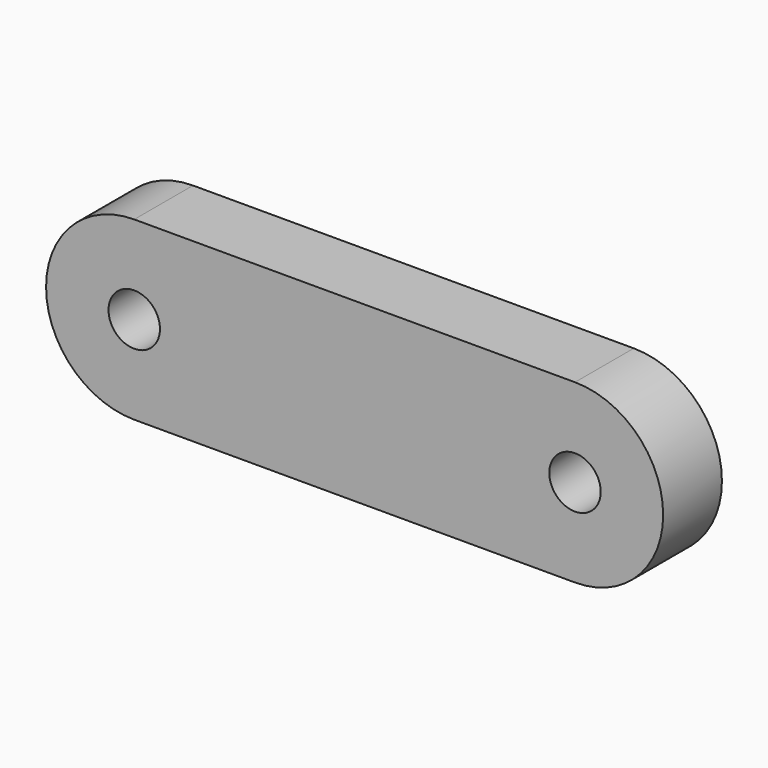
from build123d import *

# Parameters (mm, degrees)
F0_R     = 1.75
F1_DEPTH = 5


with BuildPart() as f1:
    # F0 (on Front) → F1 (new body)
    with BuildSketch(Plane.XZ):
        with BuildLine():
            ThreePointArc((13.25, 0), (15, -1.75), (16.75, 0))
            ThreePointArc((16.75, 0), (15, 1.75), (13.25, 0))
        make_face()
        with Locations((-15, 0)):
            Circle(F0_R)
        with BuildLine():
            ThreePointArc((-15, 6), (-21, 0), (-15, -6))
            Line((-15, -6), (15, -6))
            ThreePointArc((15, -6), (21, 0), (15, 6))
            Line((15, 6), (-15, 6))
        make_face()
        with Locations((-15, 0)):
            Circle(F0_R, mode=Mode.SUBTRACT)
        with BuildLine():
            ThreePointArc((13.25, 0), (15, 1.75), (16.75, 0))
            ThreePointArc((16.75, 0), (15, -1.75), (13.25, 0))
        make_face(mode=Mode.SUBTRACT)
    extrude(amount=F1_DEPTH)


solid = f1.part
